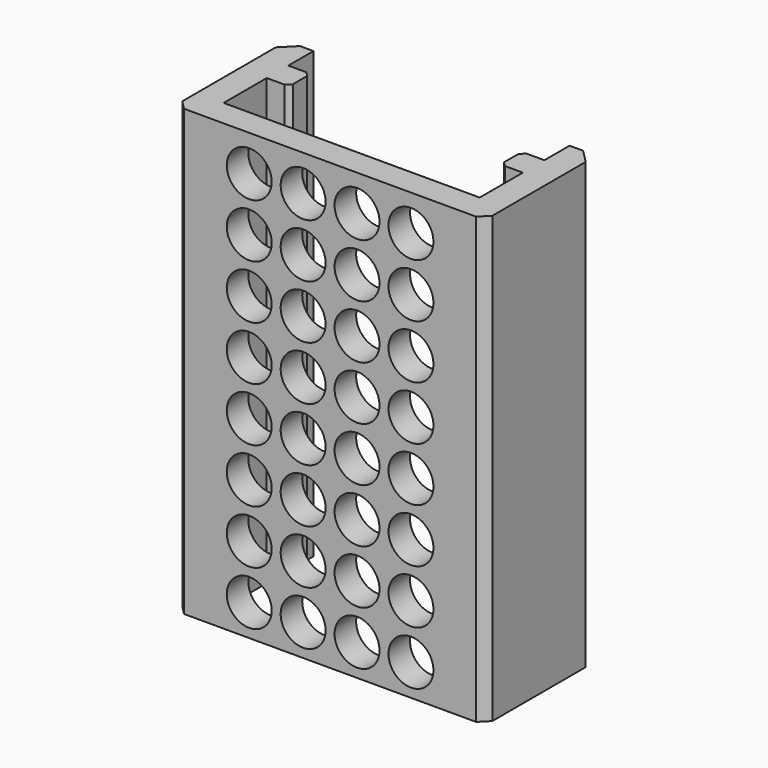
from build123d import *

# Parameters (mm, degrees)
PAD_DEPTH       = 49.5
CHAMFER_SIZE    = 1.5
CHAMFER001_SIZE = 0.5
CHAMFER002_SIZE = 1
SKETCH001_R     = 2.5
POCKET_DEPTH    = 5


with BuildPart() as part:
    # Sketch → Pad (new body)
    with BuildSketch(Plane.XY):
        Polygon((0, 0), (14.25, 0), (14.25, 6), (11.75, 6), (11.75, 9), (14.25, 9), (14.25, 12.5), (17.25, 12.5), (17.25, -3), (0, -3), align=None)
    pad = extrude(amount=PAD_DEPTH)

    # Mirrored: Pad across Sketch V_Axis
    add(pad.mirror(Plane(origin=(0, 0, 0), x_dir=(0, 0, 1), z_dir=(1, 0, 0))))

    # Chamfer
    chamfer_edges = [part.edges().sort_by_distance(p)[0] for p in [
        (-17.25, 12.5, 24.75),
        (17.25, 12.5, 24.75),
    ]]
    chamfer(chamfer_edges, length=CHAMFER_SIZE)

    # Chamfer001
    chamfer001_edges = [part.edges().sort_by_distance(p)[0] for p in [
        (-11.75, 9, 24.75),
        (-11.75, 6, 24.75),
        (11.75, 9, 24.75),
        (11.75, 6, 24.75),
    ]]
    chamfer(chamfer001_edges, length=CHAMFER001_SIZE)

    # Chamfer002
    chamfer002_edges = [part.edges().sort_by_distance(p)[0] for p in [
        (-17.25, -3, 24.75),
        (17.25, -3, 24.75),
    ]]
    chamfer(chamfer002_edges, length=CHAMFER002_SIZE)

    # Sketch001 (on Face9 of Chamfer002) → Pocket (cut)
    with BuildSketch(Plane(origin=(0, 0, 0), x_dir=(-1, 0, 0), z_dir=(0, 1, 0))):
        with Locations((-9, 3.5)):
            Circle(SKETCH001_R)
        with Locations((-9, 9.5)):
            Circle(SKETCH001_R)
        with Locations((-9, 15.5)):
            Circle(SKETCH001_R)
        with Locations((-9, 21.5)):
            Circle(SKETCH001_R)
        with Locations((-9, 27.5)):
            Circle(SKETCH001_R)
        with Locations((-9, 33.5)):
            Circle(SKETCH001_R)
        with Locations((-9, 39.5)):
            Circle(SKETCH001_R)
        with Locations((-9, 45.5)):
            Circle(SKETCH001_R)
        with Locations((-3, 3.5)):
            Circle(SKETCH001_R)
        with Locations((-3, 9.5)):
            Circle(SKETCH001_R)
        with Locations((-3, 15.5)):
            Circle(SKETCH001_R)
        with Locations((-3, 21.5)):
            Circle(SKETCH001_R)
        with Locations((-3, 27.5)):
            Circle(SKETCH001_R)
        with Locations((-3, 33.5)):
            Circle(SKETCH001_R)
        with Locations((-3, 39.5)):
            Circle(SKETCH001_R)
        with Locations((-3, 45.5)):
            Circle(SKETCH001_R)
        with Locations((3, 3.5)):
            Circle(SKETCH001_R)
        with Locations((3, 9.5)):
            Circle(SKETCH001_R)
        with Locations((3, 15.5)):
            Circle(SKETCH001_R)
        with Locations((3, 21.5)):
            Circle(SKETCH001_R)
        with Locations((3, 27.5)):
            Circle(SKETCH001_R)
        with Locations((3, 33.5)):
            Circle(SKETCH001_R)
        with Locations((3, 39.5)):
            Circle(SKETCH001_R)
        with Locations((3, 45.5)):
            Circle(SKETCH001_R)
        with Locations((9, 3.5)):
            Circle(SKETCH001_R)
        with Locations((9, 9.5)):
            Circle(SKETCH001_R)
        with Locations((9, 15.5)):
            Circle(SKETCH001_R)
        with Locations((9, 21.5)):
            Circle(SKETCH001_R)
        with Locations((9, 27.5)):
            Circle(SKETCH001_R)
        with Locations((9, 33.5)):
            Circle(SKETCH001_R)
        with Locations((9, 39.5)):
            Circle(SKETCH001_R)
        with Locations((9, 45.5)):
            Circle(SKETCH001_R)
    extrude(amount=-POCKET_DEPTH, mode=Mode.SUBTRACT)


solid = part.part
